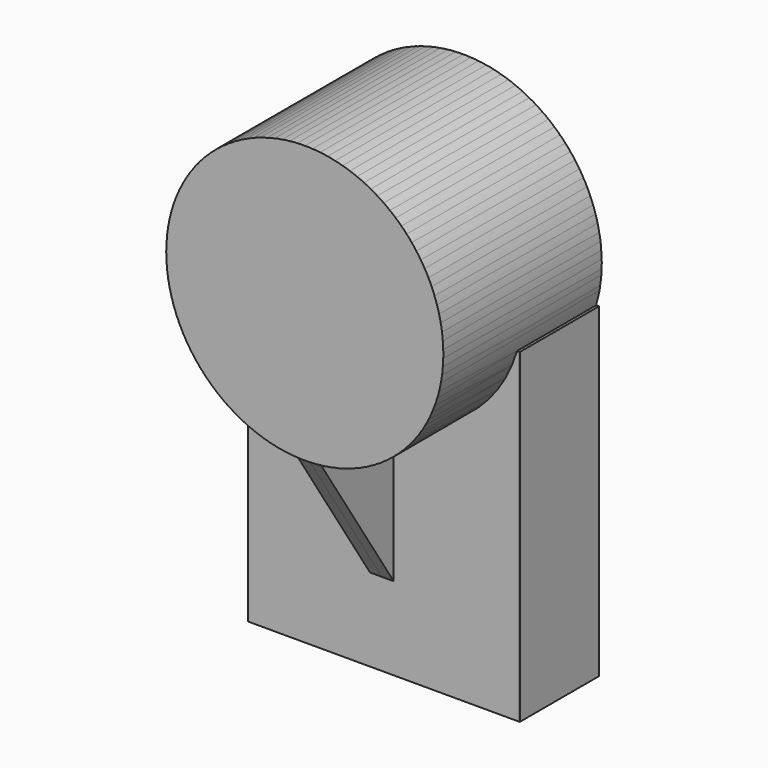
from build123d import *

# Parameters (mm, degrees)
F0_R     = 35
F1_DEPTH = 50
F2_W     = 68.271753
F2_H     = 82.222935
F3_DEPTH = 25
F5_DEPTH = 3


with BuildPart() as f1:
    # F0 (on Front) → F1 (new body)
    with BuildSketch(Plane.XZ):
        with Locations((0, 47.180508)):
            Circle(F0_R)
    extrude(amount=F1_DEPTH)

    # F2 (on Front) → F3 (join)
    with BuildSketch(Plane.XZ):
        with Locations((0.148417, -3.830592)):
            Rectangle(F2_W, F2_H)
    extrude(amount=F3_DEPTH)

    # F4 (on Right) → F5 (join)
    with BuildSketch(Plane.YZ):
        Polygon((-25.676114, 12.050013), (-49.719643, 13.237347), (-25.676114, -23.570031), align=None)
    extrude(amount=F5_DEPTH)


with BuildPart() as f6_1:
    # F6: instance of F1
    add(f1.part.mirror(Plane(origin=(0, -33.463358, 0.258755), x_dir=(0, 1, 0), z_dir=(-1, 0, 0))))


solid = Compound([f1.part, f6_1.part])
